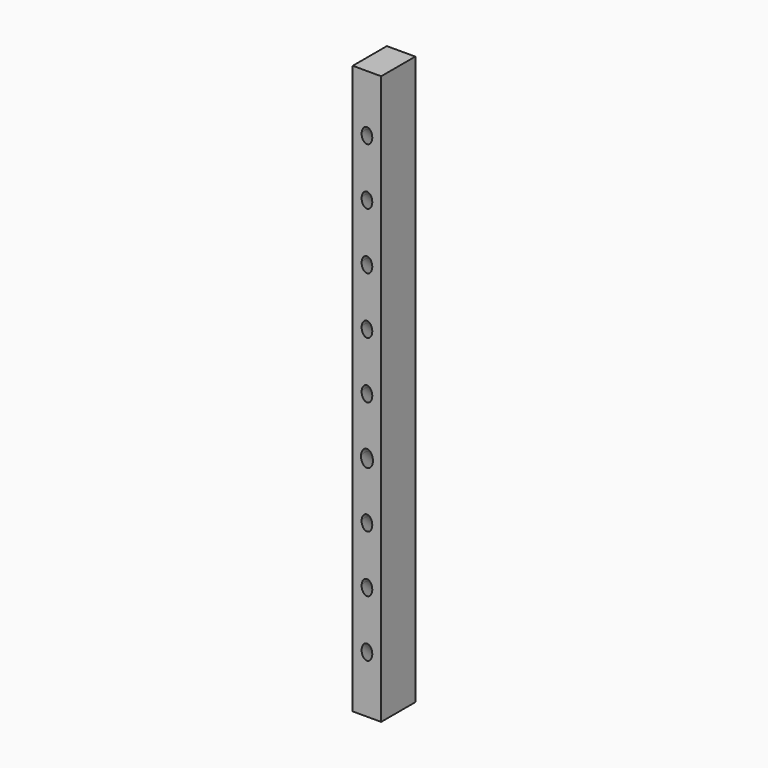
from build123d import *

# Parameters (mm, degrees)
F0_W      = 25.4
F0_H      = 508
F1_DEPTH  = 38.1
F4_R      = 4.7625
F6_R      = 4.7625
F8_R      = 4.7625
F10_R     = 4.7625
F12_R     = 4.7625
F14_R     = 5.336808
F16_R     = 4.7625
F18_R     = 4.7625
F20_R     = 4.7625
F21_DEPTH = 19.05


with BuildPart() as f1:
    # F0 (on Front) → F1 (new body)
    with BuildSketch(Plane.XZ):
        Rectangle(F0_W, F0_H)
    extrude(amount=F1_DEPTH)

    # F4 (on face) + F6 (on face) + F8 (on face) + F10 (on face) + F12 (on face) + F14 (on face) + F16 (on face) + F18 (on face) + F20 (on face) → F21 (cut, symmetric)
    with BuildSketch(Plane(origin=(0, -120.65, 120.65), x_dir=(1, 0, 0), z_dir=(0, -0.707107, 0.707107))):
        with Locations((0, 116.74333)):
            Circle(F4_R)
    with BuildSketch(Plane(origin=(0, -95.25, 95.25), x_dir=(1, 0, 0), z_dir=(0, -0.707107, 0.707107))):
        with Locations((0, 80.822305)):
            Circle(F6_R)
    with BuildSketch(Plane(origin=(0, -69.85, 69.85), x_dir=(1, 0, 0), z_dir=(0, -0.707107, 0.707107))):
        with Locations((0, 44.901281)):
            Circle(F8_R)
    with BuildSketch(Plane(origin=(0, -44.45, 44.45), x_dir=(1, 0, 0), z_dir=(0, -0.707107, 0.707107))):
        with Locations((0, 8.980256)):
            Circle(F10_R)
    with BuildSketch(Plane(origin=(0, -19.05, 19.05), x_dir=(1, 0, 0), z_dir=(0, -0.707107, 0.707107))):
        with Locations((0, -26.940768)):
            Circle(F12_R)
    with BuildSketch(Plane(origin=(0, 6.35, -6.35), x_dir=(1, 0, 0), z_dir=(0, -0.707107, 0.707107))):
        with Locations((0, -62.861793)):
            Circle(F14_R)
    with BuildSketch(Plane(origin=(0, 31.75, -31.75), x_dir=(1, 0, 0), z_dir=(0, -0.707107, 0.707107))):
        with Locations((0, -98.782817)):
            Circle(F16_R)
    with BuildSketch(Plane(origin=(0, 57.15, -57.15), x_dir=(1, 0, 0), z_dir=(0, -0.707107, 0.707107))):
        with Locations((0, -134.703842)):
            Circle(F18_R)
    with BuildSketch(Plane(origin=(0, 82.55, -82.55), x_dir=(1, 0, 0), z_dir=(0, -0.707107, 0.707107))):
        with Locations((0, -170.624866)):
            Circle(F20_R)
    extrude(amount=F21_DEPTH, both=True, mode=Mode.SUBTRACT)


solid = f1.part
